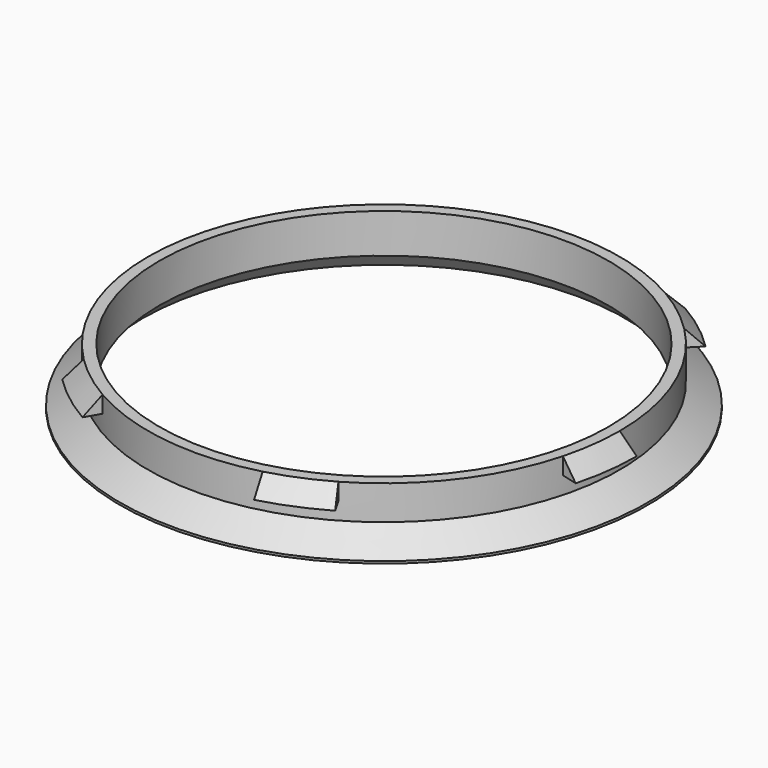
from build123d import *

# Parameters (mm, degrees)
REVOLUTION001_ANGLE = -15
POLARPATTERN_COUNT  = 6
CHAMFER_SIZE        = 3


with BuildPart() as part:
    # Sketch → Revolution (revolve)
    with BuildSketch(Plane.XZ):
        Polygon((-42, 10), (-40, 10), (-40, 0), (-47, 0), (-47, 0.4), (-42, 3.901038), align=None)
    revolve(axis=Axis((0, 0, 0), (0, 0, 1)))

    # Sketch001 → Revolution001 (revolve)
    with BuildSketch(Plane.XZ):
        Polygon((-45, 7), (-42, 7), (-42, 10), align=None)
    revolution001 = revolve(axis=Axis((0, 0, 0), (0, 0, 1)), revolution_arc=REVOLUTION001_ANGLE)

    # PolarPattern: Revolution001 ×6 about axis
    polarpattern_axis = Axis((0, 0, 0), (0, 0, 1))
    for i in range(1, POLARPATTERN_COUNT):
        add(revolution001.rotate(polarpattern_axis, i * 360 / POLARPATTERN_COUNT))

    # Chamfer
    chamfer_edges = [part.edges().sort_by_distance(p)[0] for p in [
        (40, 0, 0),
    ]]
    chamfer(chamfer_edges, length=CHAMFER_SIZE)


solid = part.part
